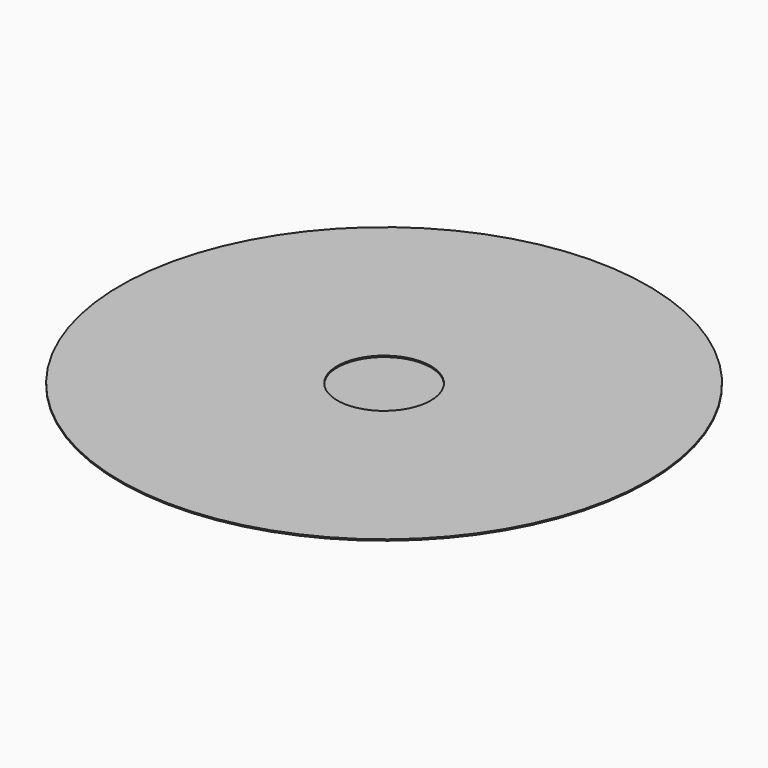
from build123d import *

# Parameters (mm, degrees)
F0_R     = 9
F1_DEPTH = 15
F2_R     = 50.8
F2_R_2   = 9
F3_DEPTH = 0.254


with BuildPart() as f1:
    # F0 (on Top) → F1 (new body)
    with BuildSketch(Plane.XY):
        Circle(F0_R)
    extrude(amount=F1_DEPTH)


with BuildPart() as f3:
    # F2 (on face) → F3 (new body)
    with BuildSketch(Plane.XY.offset(15)):
        Circle(F2_R)
        Circle(F2_R_2, mode=Mode.SUBTRACT)
    extrude(amount=F3_DEPTH)


solid = Compound([f1.part, f3.part])
